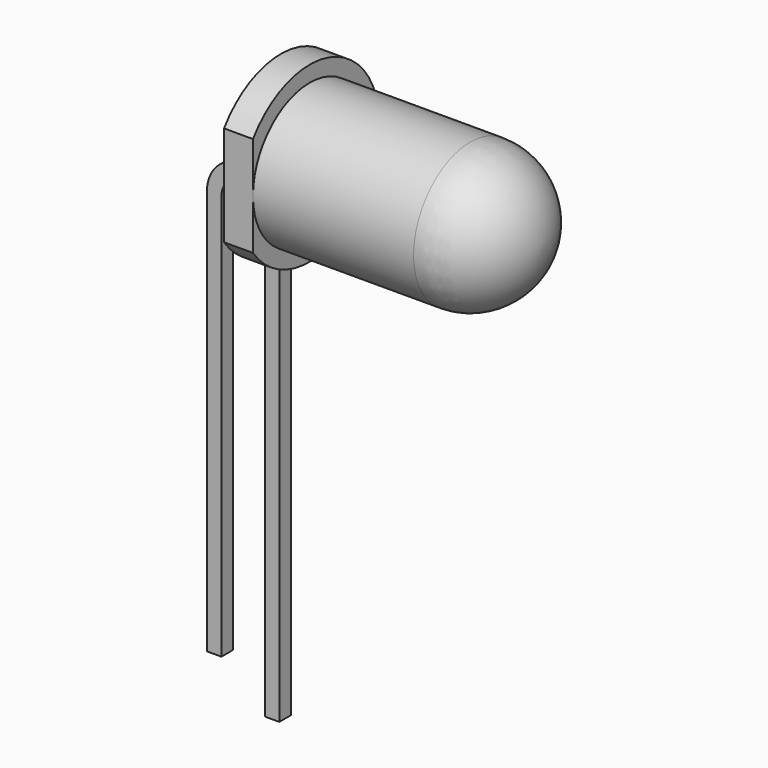
from build123d import *

# Parameters (mm, degrees)
SKETCH005_W              = 0.5
SKETCH005_H              = 0.5
SKETCH006_W              = 0.5
SKETCH006_H              = 0.5
ADDITIVEPIPE001_FACE21_W = 0.5
ADDITIVEPIPE001_FACE21_H = 0.5
PAD_DEPTH                = 3
POCKET_DEPTH             = 5


with BuildPart() as part:
    # Sketch → Revolution (revolve)
    with BuildSketch(Plane.XY):
        with BuildLine():
            Line((0, 2.45), (-5.55, 2.45))
            Line((-5.55, 2.45), (-5.55, 3))
            Line((-5.55, 3), (-6.55, 3))
            Line((-6.55, 3), (-6.55, 0))
            Line((2.45, 0), (-6.55, 0))
            ThreePointArc((2.45, 0), (1.732412, 1.732412), (0, 2.45))
        make_face()
    revolve(axis=Axis((0, 0, 0), (1, 0, 0)))

    # AdditivePipe: sweep along a path in Sketch003
    with BuildLine(Plane.XZ) as additivepipe_path:
        Line((-6.55, 0), (-6.65, 0))
        ThreePointArc((-6.65, 0), (-7.357107, -0.292893), (-7.65, -1))
        Line((-7.65, -1), (-7.65, -15))
    # Sketch005 (on Face4 of Revolution) → AdditivePipe (sweep)
    with BuildSketch(Plane(origin=(-6.55, 0, 0), x_dir=(0, -1, 0), z_dir=(-1, 0, 0))):
        with Locations((1.25, 0)):
            Rectangle(SKETCH005_W, SKETCH005_H)
    sweep(path=additivepipe_path.line)

    # AdditivePipe001: sweep along a path in Sketch003
    with BuildLine(Plane.XZ) as additivepipe001_path:
        Line((-6.55, 0), (-6.65, 0))
        ThreePointArc((-6.65, 0), (-7.357107, -0.292893), (-7.65, -1))
        Line((-7.65, -1), (-7.65, -15))
    # Sketch006 (on Face4 of Revolution) → AdditivePipe001 (sweep)
    with BuildSketch(Plane(origin=(-6.55, 0, 0), x_dir=(0, -1, 0), z_dir=(-1, 0, 0))):
        with Locations((-1.25, 0)):
            Rectangle(SKETCH006_W, SKETCH006_H)
    sweep(path=additivepipe001_path.line)

    # AdditivePipe001 Face21 → Pad (new)
    with BuildSketch(Plane(origin=(-7.65, 1.25, -15), x_dir=(0, -1, 0), z_dir=(0, 0, -1))):
        Rectangle(ADDITIVEPIPE001_FACE21_W, ADDITIVEPIPE001_FACE21_H)
    extrude(amount=PAD_DEPTH)

    # Sketch007 (on Face3 of Pad) → Pocket (cut)
    with BuildSketch(Plane.YZ.offset(-5.55)):
        with BuildLine():
            Line((-2.45, 1.731329), (-2.45, -1.731329))
            ThreePointArc((-2.45, 1.731329), (-3.000002, 0), (-2.45, -1.731329))
        make_face()
    extrude(amount=-POCKET_DEPTH, mode=Mode.SUBTRACT)


solid = part.part
